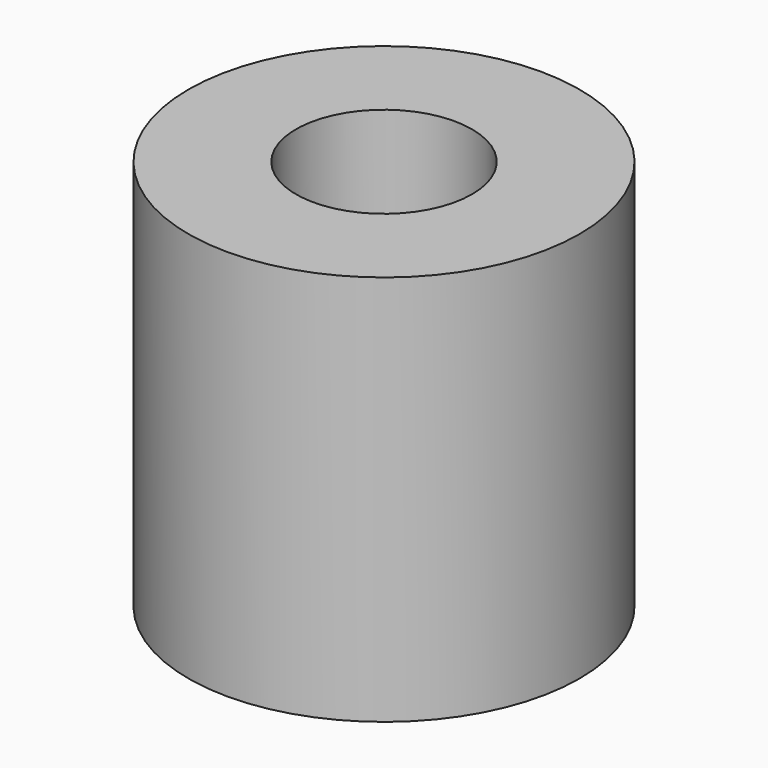
from build123d import *

# Parameters (mm, degrees)
SKETCH_R     = 5
PAD_DEPTH    = 10
SKETCH001_R  = 2.25
POCKET_DEPTH = 10.001


with BuildPart() as part:
    # Sketch → Pad (new body)
    with BuildSketch(Plane.XY):
        Circle(SKETCH_R)
    extrude(amount=PAD_DEPTH)

    # Sketch001 → Pocket (cut, through all)
    with BuildSketch(Plane.XY.offset(10)):
        Circle(SKETCH001_R)
    extrude(amount=-POCKET_DEPTH, mode=Mode.SUBTRACT)


solid = part.part
